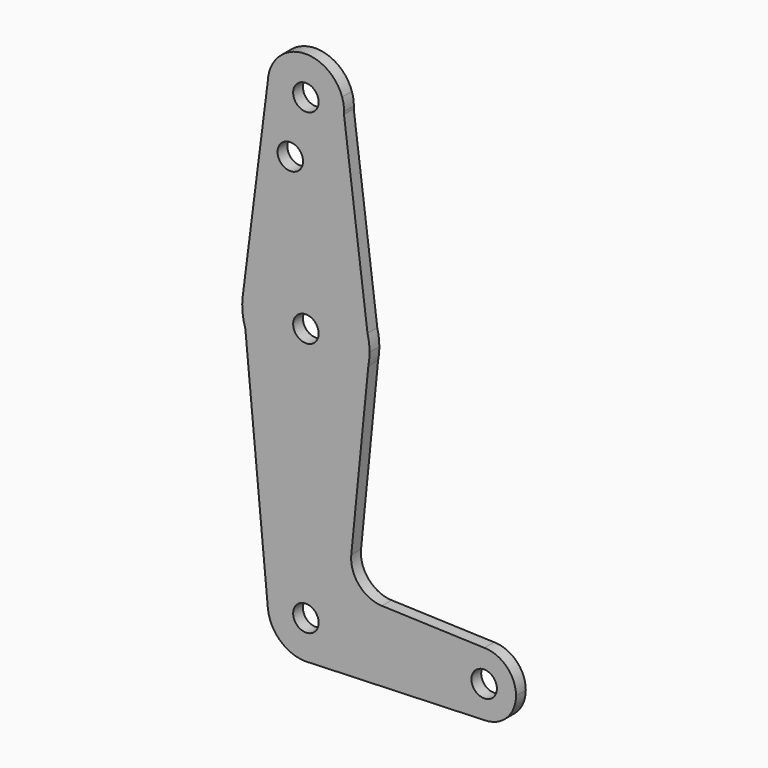
from build123d import *

# Parameters (mm, degrees)
F0_R     = 3.175
F1_DEPTH = 3.048


with BuildPart() as f1:
    # F0 (on Front) → F1 (new body)
    with BuildSketch(Plane.XZ):
        with BuildLine():
            ThreePointArc((9.500558517, 103.1516567344), (9.5188876681, 103.492397054), (9.525, 103.8335752517))
            ThreePointArc((9.525, 103.8335752517), (9.3997691773, 105.3730441254), (9.027369677, 106.872032379))
            Line((9.027369677, 106.872032379), (9.500558517, 103.1516567344))
        make_face()
        with BuildLine():
            Line((9.500558517, 103.1516567344), (9.027369677, 106.872032379))
            ThreePointArc((9.027369677, 106.872032379), (-1.4086767295, 113.2538329378), (-9.5213201013, 104.0983176332))
            ThreePointArc((-9.5213201013, 104.0983176332), (-0.4734442683, 94.3203489049), (9.500558517, 103.1516567344))
        make_face()
        with Locations((0, 103.8335752517)):
            Circle(F0_R, mode=Mode.SUBTRACT)
        with BuildLine():
            Line((15.3695597639, 57.0075226173), (9.500558517, 103.1516567344))
            ThreePointArc((9.500558517, 103.1516567344), (-0.4734442683, 94.3203489049), (-9.5213201013, 104.0983176332))
            Line((-9.5213201013, 104.0983176332), (-15.7486658506, 55.0323621154))
            ThreePointArc((-15.7486658506, 55.0323621154), (-1.0056068359, 68.876692997), (15.3695597639, 57.0075226173))
        make_face()
        with Locations((-3.8885895628, 89.5587752517)):
            Circle(F0_R, mode=Mode.SUBTRACT)
        with BuildLine():
            Line((15.875, 53.0335752517), (15.3695597639, 57.0075226173))
            ThreePointArc((15.3695597639, 57.0075226173), (-1.0056068359, 68.876692997), (-15.7486658506, 55.0323621154))
            Line((-15.7486658506, 55.0323621154), (-15.096682079, 48.1238079246))
            ThreePointArc((-15.096682079, 48.1238079246), (0.9246307447, 37.1855254352), (15.5652161214, 49.9127304794))
            Line((15.5652161214, 49.9127304794), (15.875, 53.0335752517))
        make_face()
        with Locations((0, 53.0335752517)):
            Circle(F0_R, mode=Mode.SUBTRACT)
        with BuildLine():
            ThreePointArc((15.875, 53.0335752517), (15.7481330044, 55.036555999), (15.3695597639, 57.0075226173))
            Line((15.3695597639, 57.0075226173), (15.875, 53.0335752517))
        make_face()
        with BuildLine():
            Line((-15.096682079, 48.1238079246), (-15.7486658506, 55.0323621154))
            ThreePointArc((-15.7486658506, 55.0323621154), (-15.8047746734, 51.5420248757), (-15.096682079, 48.1238079246))
        make_face()
        with BuildLine():
            ThreePointArc((15.5652161214, 49.9127304794), (15.7973641936, 51.4654842033), (15.875, 53.0335752517))
            Line((15.875, 53.0335752517), (15.5652161214, 49.9127304794))
        make_face()
        with BuildLine():
            ThreePointArc((15.5652161214, 49.9127304794), (0.9246307447, 37.1855254352), (-15.096682079, 48.1238079246))
            Line((-15.096682079, 48.1238079246), (-9.482864804, -11.3613549739))
            ThreePointArc((-9.482864804, -11.3613549739), (-0.4479607917, -0.9519643785), (9.525, -10.4664247483))
            ThreePointArc((9.525, -10.4664247483), (7.0417562034, -16.8804168416), (0.8868279113, -19.9500507034))
            Line((0.8868279113, -19.9500507034), (44.7306341096, -18.3989622204))
            ThreePointArc((44.7306341096, -18.3989622204), (36.513403692, -10.5861965919), (44.4911396458, -2.5290313613))
            Line((44.4911396458, -2.5290313613), (18.9446026129, -1.6174374697))
            ThreePointArc((18.9446026129, -1.6174374697), (13.2411304484, 1.0968642178), (11.3167943992, 7.113005768))
            Line((11.3167943992, 7.113005768), (15.5652161214, 49.9127304794))
        make_face()
        with BuildLine():
            ThreePointArc((9.525, -10.4664247483), (-0.4479607917, -0.9519643785), (-9.482864804, -11.3613549739))
            ThreePointArc((-9.482864804, -11.3613549739), (-6.4898775759, -17.4383049861), (-0.2144338164, -19.9890106964))
            Line((-0.2144338164, -19.9890106964), (0.8868279113, -19.9500507034))
            ThreePointArc((0.8868279113, -19.9500507034), (7.0417562034, -16.8804168416), (9.525, -10.4664247483))
        make_face()
        with Locations((0, -10.4664247483)):
            Circle(F0_R, mode=Mode.SUBTRACT)
        with BuildLine():
            Line((0.8868279113, -19.9500507034), (-0.2144338164, -19.9890106964))
            ThreePointArc((-0.2144338164, -19.9890106964), (0.3367609315, -19.9854697148), (0.8868279113, -19.9500507034))
        make_face()
        with BuildLine():
            ThreePointArc((52.3875, -10.4664247483), (50.077186339, -4.8683286295), (44.4911396458, -2.5290313613))
            ThreePointArc((44.4911396458, -2.5290313613), (36.513403692, -10.5861965919), (44.7306341096, -18.3989622204))
            ThreePointArc((44.7306341096, -18.3989622204), (50.1610174004, -15.9789728436), (52.3875, -10.4664247483))
        make_face()
        with Locations((44.45, -10.4664247483)):
            Circle(F0_R, mode=Mode.SUBTRACT)
    extrude(amount=F1_DEPTH)


solid = f1.part
